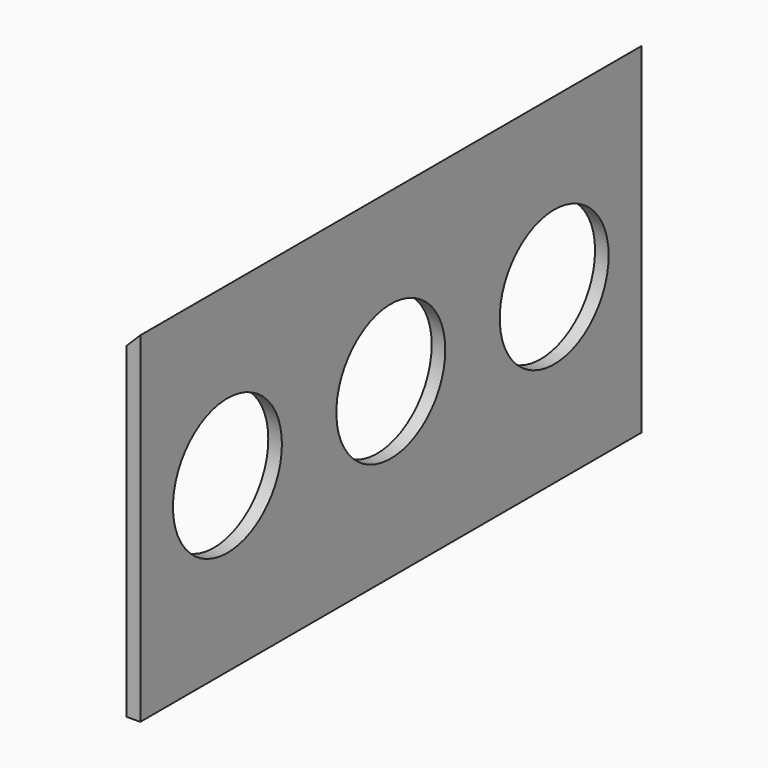
from build123d import *

# Parameters (mm, degrees)
F1_DEPTH = 584.2
F2_R     = 63.5
F3_DEPTH = 12.701


with BuildPart() as f1:
    # F0 (on Front) → F1 (new body)
    with BuildSketch(Plane.XZ):
        Polygon((0, 304.8), (0, 0), (12.7, 0), (12.7, 317.5), align=None)
    extrude(amount=-F1_DEPTH)

    # F2 (on Right) → F3 (cut, through all)
    with BuildSketch(Plane.YZ):
        with Locations((101.6, 161.010537)):
            Circle(F2_R)
        with Locations((292.1, 161.010537)):
            Circle(F2_R)
        with Locations((482.6, 161.010537)):
            Circle(F2_R)
    extrude(amount=F3_DEPTH, mode=Mode.SUBTRACT)


solid = f1.part
